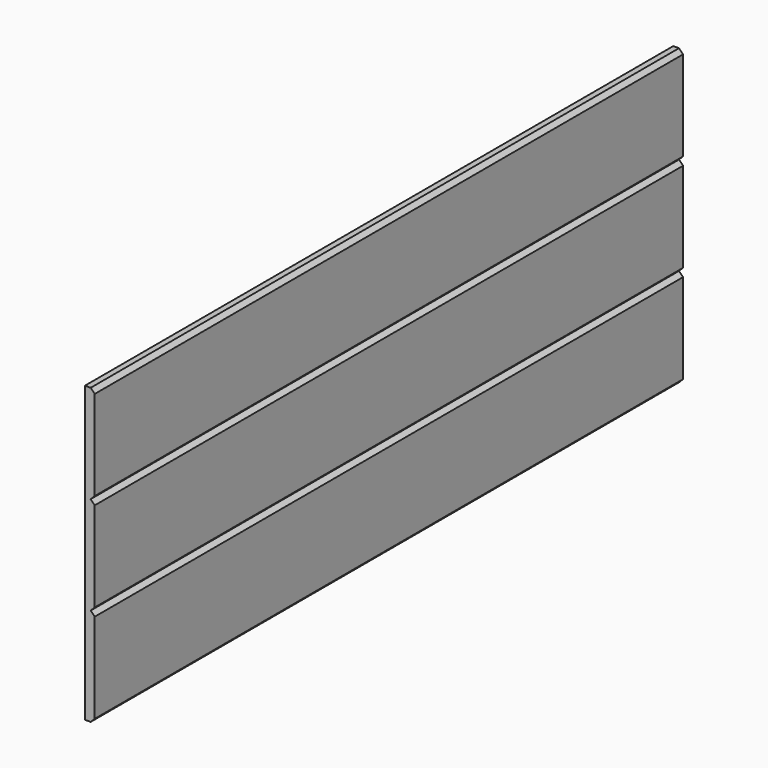
from build123d import *

# Parameters (mm, degrees)
F0_W     = 900
F0_H     = 360
F1_DEPTH = 12
F3_DEPTH = 900.001


with BuildPart() as f1:
    # F0 (on Right) → F1 (new body)
    with BuildSketch(Plane.YZ):
        with Locations((-0.698904, 7.688301)):
            Rectangle(F0_W, F0_H)
    extrude(amount=F1_DEPTH)

    # F2 (on face) → F3 (cut, through all)
    with BuildSketch(Plane(origin=(0, 449.301096, 0), x_dir=(-1, 0, 0), z_dir=(0, 1, 0))):
        Polygon((-12, -167.311699), (-12, -172.311699), (-7, -172.311699), align=None)
        Polygon((-7, -52.311699), (-12, -52.311699), (-12, -57.311699), align=None)
        Polygon((-12, -47.311699), (-12, -52.311699), (-7, -52.311699), align=None)
        Polygon((-7, 67.688301), (-12, 67.688301), (-12, 62.688301), align=None)
        Polygon((-12, 72.688301), (-12, 67.688301), (-7, 67.688301), align=None)
        Polygon((-7, 187.688301), (-12, 187.688301), (-12, 182.688301), align=None)
    extrude(amount=-F3_DEPTH, mode=Mode.SUBTRACT)


solid = f1.part
